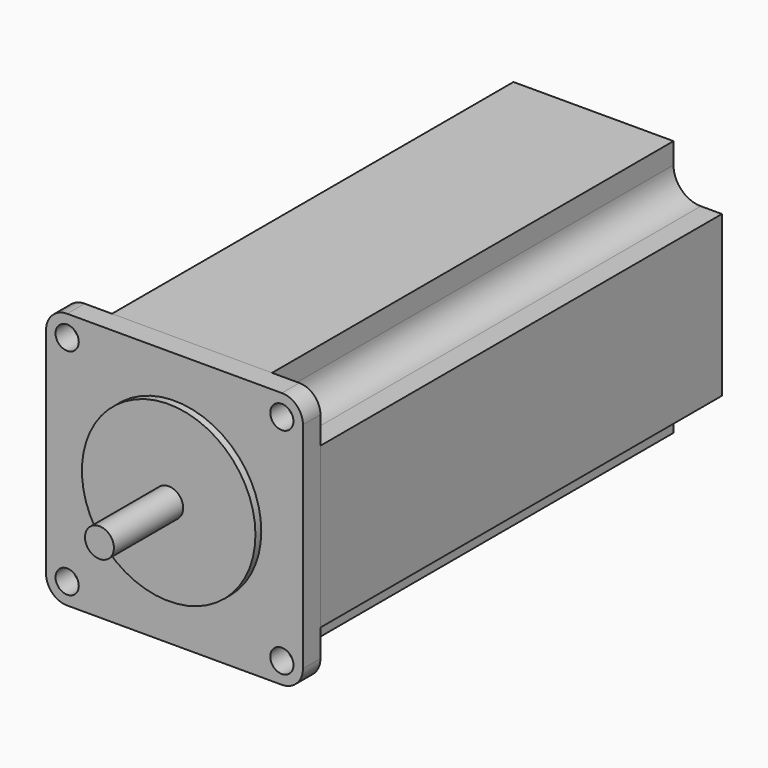
from build123d import *

# Parameters (mm, degrees)
SKETCH_R     = 2.55
PAD_DEPTH    = 4.8
SKETCH001_R  = 19.05
PAD001_DEPTH = 1.6
SKETCH002_R  = 3.175
PAD002_DEPTH = 19
PAD003_DEPTH = 4.8
PAD004_DEPTH = 95.8
PAD005_DEPTH = 9.6


with BuildPart() as part:
    # Sketch → Pad (new body)
    with BuildSketch(Plane.XZ):
        with BuildLine():
            ThreePointArc((-23.569992, 28.200011), (-26.843905, 26.843912), (-28.200003, 23.57))
            Line((-28.200003, 23.57), (-28.200003, -23.569985))
            ThreePointArc((-28.200003, -23.569985), (-26.84391, -26.843907), (-23.569992, -28.200011))
            Line((-23.569992, -28.200011), (23.569992, -28.200011))
            ThreePointArc((23.569992, -28.200011), (26.843903, -26.843907), (28.199997, -23.569992))
            Line((28.199997, 23.569992), (28.199997, -23.569992))
            ThreePointArc((28.199997, 23.569992), (26.843903, 26.843907), (23.569992, 28.200011))
            Line((-23.569992, 28.200011), (23.569992, 28.200011))
        make_face()
        with Locations((-23.569992, 23.57)):
            Circle(SKETCH_R, mode=Mode.SUBTRACT)
        with Locations((23.569985, 23.57)):
            Circle(SKETCH_R, mode=Mode.SUBTRACT)
        with Locations((23.569985, -23.57)):
            Circle(SKETCH_R, mode=Mode.SUBTRACT)
        with Locations((-23.569992, -23.57)):
            Circle(SKETCH_R, mode=Mode.SUBTRACT)
    extrude(amount=PAD_DEPTH)

    # Sketch001 → Pad001 (new body)
    with BuildSketch(Plane.XZ.offset(4.8)):
        Circle(SKETCH001_R)
    extrude(amount=PAD001_DEPTH)

    # Sketch002 → Pad002 (new body)
    with BuildSketch(Plane.XZ.offset(6.4)):
        Circle(SKETCH002_R)
    extrude(amount=PAD002_DEPTH)

    # Sketch003 → Pad003 (new body)
    with BuildSketch(Plane(origin=(0, 0, 0), x_dir=(1, 0, 0), z_dir=(0, 1, 0))):
        with BuildLine():
            ThreePointArc((-23.569999, 17.57), (-19.327359, 19.32736), (-17.57, 23.570001))
            Line((-17.57, 23.570001), (-17.57, 28.2))
            Line((-17.57, 28.2), (17.57, 28.2))
            Line((17.57, 28.2), (17.57, 23.56997))
            ThreePointArc((17.57, 23.56997), (19.32737, 19.327349), (23.57, 17.57))
            Line((23.57, 17.57), (28.2, 17.57))
            Line((28.2, 17.57), (28.2, -17.57))
            Line((28.2, -17.57), (23.570008, -17.57))
            ThreePointArc((23.570008, -17.57), (19.327365, -19.327354), (17.57, -23.569992))
            Line((17.57, -28.2), (17.57, -23.569992))
            Line((-17.57, -28.2), (17.57, -28.2))
            Line((-17.57, -23.57), (-17.57, -28.2))
            ThreePointArc((-17.57, -23.57), (-19.327359, -19.327359), (-23.57, -17.57))
            Line((-28.2, -17.57), (-23.57, -17.57))
            Line((-28.2, 17.57), (-28.2, -17.57))
            Line((-23.569999, 17.57), (-28.2, 17.57))
        make_face()
    extrude(amount=PAD003_DEPTH)

    # Sketch004 → Pad004 (new body)
    with BuildSketch(Plane(origin=(0, 4.8, 0), x_dir=(1, 0, 0), z_dir=(0, 1, 0))):
        with BuildLine():
            ThreePointArc((-23.569999, 17.57), (-19.327359, 19.32736), (-17.57, 23.570001))
            Line((-17.57, 23.570001), (-17.57, 28.2))
            Line((-17.57, 28.2), (17.57, 28.2))
            Line((17.57, 28.2), (17.57, 23.56997))
            ThreePointArc((17.57, 23.56997), (19.32737, 19.327349), (23.57, 17.57))
            Line((23.57, 17.57), (28.2, 17.57))
            Line((28.2, 17.57), (28.2, -17.57))
            Line((28.2, -17.57), (23.570008, -17.57))
            ThreePointArc((23.570008, -17.57), (19.327365, -19.327354), (17.57, -23.569992))
            Line((17.57, -28.2), (17.57, -23.569992))
            Line((-17.57, -28.2), (17.57, -28.2))
            Line((-17.57, -23.57), (-17.57, -28.2))
            ThreePointArc((-17.57, -23.57), (-19.327359, -19.327359), (-23.57, -17.57))
            Line((-28.2, -17.57), (-23.57, -17.57))
            Line((-28.2, 17.57), (-28.2, -17.57))
            Line((-23.569999, 17.57), (-28.2, 17.57))
        make_face()
    extrude(amount=PAD004_DEPTH)

    # Sketch005 → Pad005 (new body)
    with BuildSketch(Plane(origin=(0, 100.6, 0), x_dir=(1, 0, 0), z_dir=(0, 1, 0))):
        with BuildLine():
            ThreePointArc((-23.569999, 17.57), (-19.327359, 19.32736), (-17.57, 23.570001))
            Line((-17.57, 23.570001), (-17.57, 28.2))
            Line((-17.57, 28.2), (17.57, 28.2))
            Line((17.57, 28.2), (17.57, 23.56997))
            ThreePointArc((17.57, 23.56997), (19.32737, 19.327349), (23.57, 17.57))
            Line((23.57, 17.57), (28.2, 17.57))
            Line((28.2, 17.57), (28.2, -17.57))
            Line((28.2, -17.57), (23.570008, -17.57))
            ThreePointArc((23.570008, -17.57), (19.327365, -19.327354), (17.57, -23.569992))
            Line((17.57, -28.2), (17.57, -23.569992))
            Line((-17.57, -28.2), (17.57, -28.2))
            Line((-17.57, -23.57), (-17.57, -28.2))
            ThreePointArc((-17.57, -23.57), (-19.327359, -19.327359), (-23.57, -17.57))
            Line((-28.2, -17.57), (-23.57, -17.57))
            Line((-28.2, 17.57), (-28.2, -17.57))
            Line((-23.569999, 17.57), (-28.2, 17.57))
        make_face()
    extrude(amount=PAD005_DEPTH)


solid = part.part
